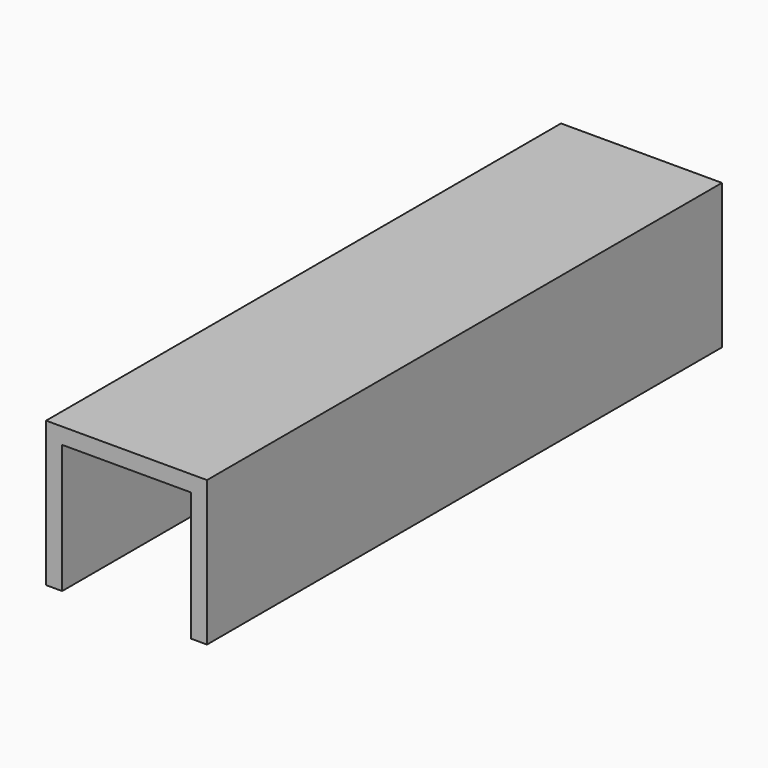
from build123d import *

# Parameters (mm, degrees)
F0_W     = 25.4
F0_H     = 3.175
F1_DEPTH = 127


with BuildPart() as f1:
    # F0 (on Front) → F1 (new body)
    with BuildSketch(Plane.XZ):
        with Locations((-32.092307, 15.347989)):
            Rectangle(F0_W, F0_H)
        Polygon((-44.792307, 13.760489), (-44.792307, 16.935489), (-47.967307, 16.935489), (-47.967307, -11.639511), (-44.792307, -11.639511), align=None)
        Polygon((-16.217307, 16.935489), (-19.392307, 16.935489), (-19.392307, 13.760489), (-19.392307, -11.639511), (-16.217307, -11.639511), align=None)
    extrude(amount=F1_DEPTH)


solid = f1.part
